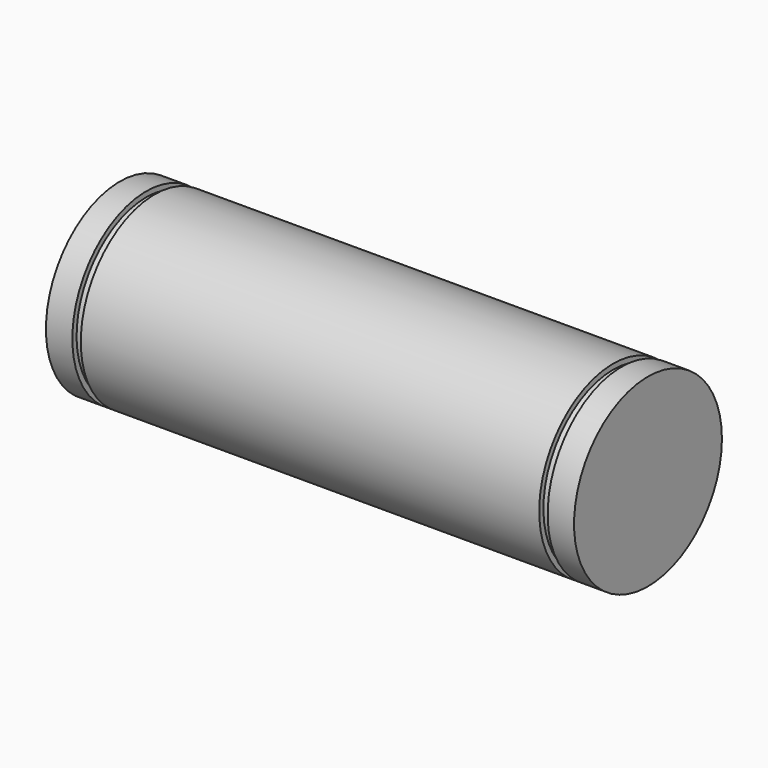
from build123d import *

# Parameters (mm, degrees)
F0_R     = 17.5
F1_DEPTH = 100
F2_W     = 1.6
F2_H     = 1


with BuildPart() as f1:
    # F0 (on Right) → F1 (new body)
    with BuildSketch(Plane.YZ):
        Circle(F0_R)
    extrude(amount=-F1_DEPTH)

    # F2 (on Front) → F3 (revolve, cut)
    with BuildSketch(Plane.XZ):
        with Locations((-5.8, 17)):
            Rectangle(F2_W, F2_H)
        with Locations((-94.2, 17)):
            Rectangle(F2_W, F2_H)
    revolve(axis=Axis((-50, 0, 0), (-1, 0, 0)), mode=Mode.SUBTRACT)


solid = f1.part
